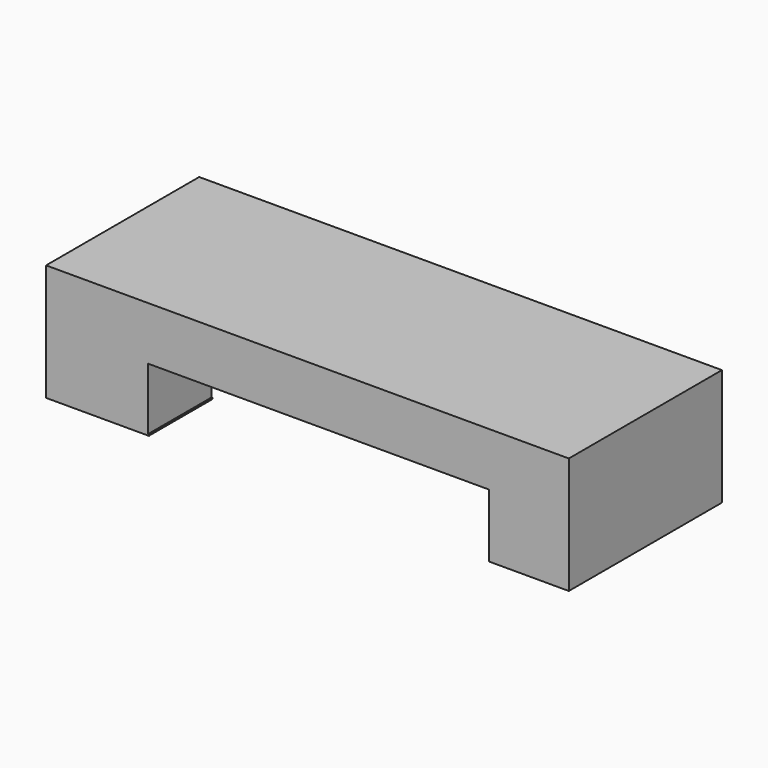
from build123d import *

# Parameters (mm, degrees)
F0_W     = 2844.8
F0_H     = 635
F1_DEPTH = 1041.4
F2_T     = -431.8
F3_W     = 1854.2
F3_H     = 337.394852
F4_DEPTH = 1041.4
F5_W     = 1864.435851
F5_H     = 1044.369351
F6_DEPTH = 25.4
F7_W     = 1850.370407
F7_H     = 173.659369
F8_DEPTH = 25.4


with BuildPart() as f1:
    # F0 (on Front) → F1 (new body)
    with BuildSketch(Plane.XZ):
        with Locations((-1367.063681, 277.902381)):
            Rectangle(F0_W, F0_H)
    extrude(amount=F1_DEPTH)

    # F2
    f2_openings = [f1.faces().sort_by_distance(p)[0] for p in [
        (-1367.063681, -520.7, -39.597619),
    ]]
    offset(amount=F2_T, openings=f2_openings)

    # F3 (on face) → F4 (cut)
    with BuildSketch(Plane.XZ.offset(1041.4)):
        with Locations((-1307.315948, 136.371216)):
            Rectangle(F3_W, F3_H)
    extrude(amount=-F4_DEPTH, mode=Mode.SUBTRACT)

    # F5 (on face) → F6 (cut)
    with BuildSketch(Plane(origin=(0, 0, -39.597619), x_dir=(1, 0, 0), z_dir=(0, 0, -1))):
        with Locations((-1298.187882, 517.15737)):
            Rectangle(F5_W, F5_H)
    extrude(amount=-F6_DEPTH, mode=Mode.SUBTRACT)

    # F7 (on face) → F8 (cut)
    with BuildSketch(Plane.XZ.offset(1041.4)):
        with Locations((-1304.16298, -35.320341)):
            Rectangle(F7_W, F7_H)
    extrude(amount=-F8_DEPTH, mode=Mode.SUBTRACT)


solid = f1.part
